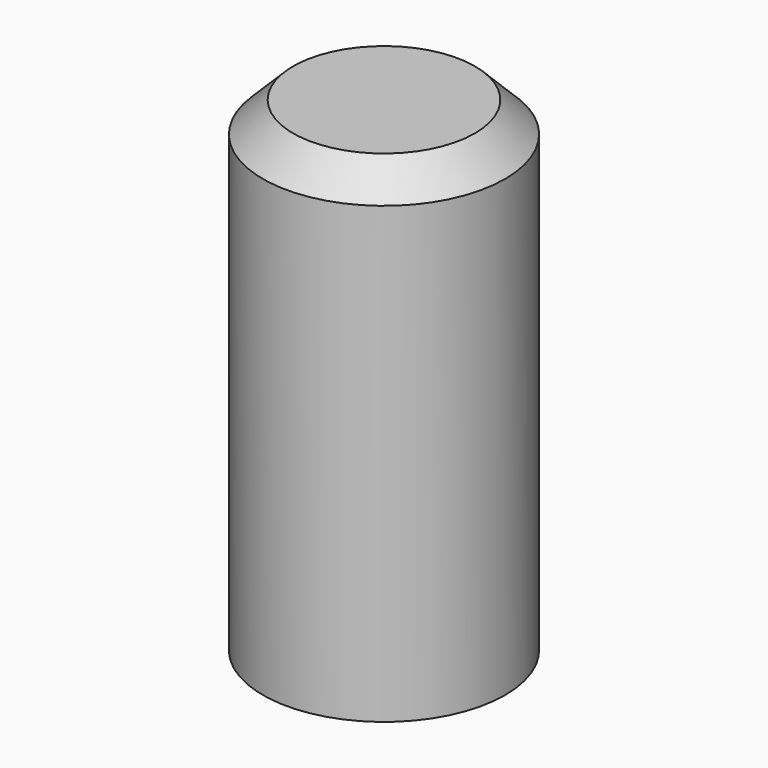
from build123d import *

# Parameters (mm, degrees)
F0_R     = 2
F1_DEPTH = 8
F2_R     = 1
F3_DEPTH = 7
F4_SIZE  = 0.5


with BuildPart() as f1:
    # F0 (on Top) → F1 (new body)
    with BuildSketch(Plane.XY):
        Circle(F0_R)
    extrude(amount=F1_DEPTH)

    # F2 (on face) → F3 (cut)
    with BuildSketch(Plane(origin=(0, 0, 0), x_dir=(1, 0, 0), z_dir=(0, 0, -1))):
        Circle(F2_R)
    extrude(amount=-F3_DEPTH, mode=Mode.SUBTRACT)

    # F4
    f4_edges = [f1.edges().sort_by_distance(p)[0] for p in [
        (-2, 0, 8),
    ]]
    chamfer(f4_edges, length=F4_SIZE)


solid = f1.part
